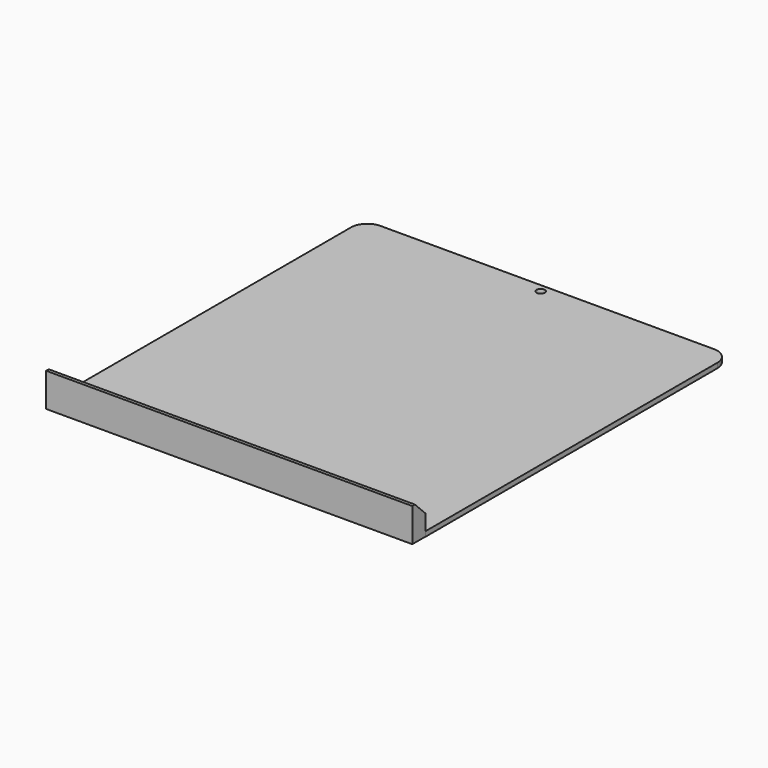
from build123d import *

# Parameters (mm, degrees)
F0_W     = 224
F0_H     = 233
F0_R     = 2.5
F1_DEPTH = 3
F2_W     = 223.902777
F2_H     = 20.5527
F3_DEPTH = 10
F4_SIZE  = 8
F5_R     = 10
F6_R     = 10


with BuildPart() as f1:
    # F0 (on Top) → F1 (new body)
    with BuildSketch(Plane.XY):
        with Locations((-34.568664, -44.312108)):
            Rectangle(F0_W, F0_H)
        with Locations((-34.568664, 67.187892)):
            Circle(F0_R, mode=Mode.SUBTRACT)
    extrude(amount=F1_DEPTH)

    # F2 (on face) → F3 (join)
    with BuildSketch(Plane.XZ.offset(160.812108)):
        with Locations((-34.617275, 10.27635)):
            Rectangle(F2_W, F2_H)
    extrude(amount=F3_DEPTH)

    # F4
    f4_edges = [f1.edges().sort_by_distance(p)[0] for p in [
        (-34.617275, -160.812108, 20.5527),
    ]]
    chamfer(f4_edges, length=F4_SIZE)

    # F5
    f5_edges = [f1.edges().sort_by_distance(p)[0] for p in [
        (-146.568664, 72.187892, 1.5),
    ]]
    fillet(f5_edges, radius=F5_R)

    # F6
    f6_edges = [f1.edges().sort_by_distance(p)[0] for p in [
        (77.431336, 72.187892, 1.5),
    ]]
    fillet(f6_edges, radius=F6_R)


solid = f1.part
